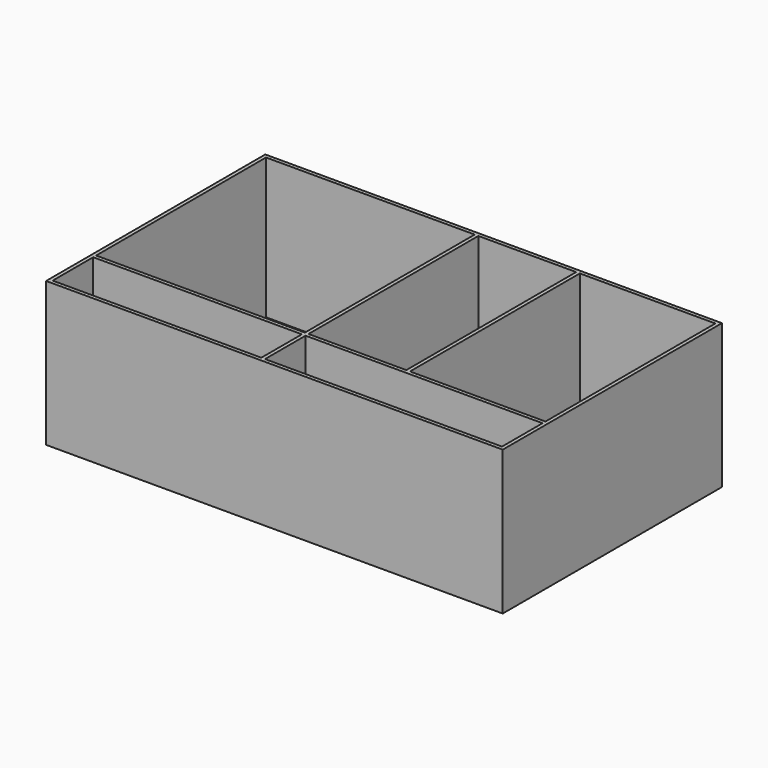
from build123d import *

# Parameters (mm, degrees)
F2_W     = 200
F2_H     = 120
F3_DEPTH = 63.2
F4_T     = -1.6
F5_W     = 1.6
F5_H     = 1.6
F5_H_2   = 22.2
F5_H_3   = 93
F5_W_2   = 91.4
F6_DEPTH = 61.6


with BuildPart() as f3:
    # F2 (on Top) → F3 (new body)
    with BuildSketch(Plane.XY):
        with Locations((74.1047750609, 38.4864358604)):
            Rectangle(F2_W, F2_H)
    extrude(amount=F3_DEPTH)

    # F4
    f4_openings = [f3.faces().sort_by_distance(p)[0] for p in [
        (74.104775, 38.486436, 63.2),
    ]]
    offset(amount=F4_T, openings=f4_openings)

    # F5 (on face) → F6 (join, through all)
    with BuildSketch(Plane.XY.offset(1.6)):
        with Locations((67.9047750609, 3.0864358604)):
            Rectangle(F5_W, F5_H)
        with Locations((67.9047750609, -8.8135641396)):
            Rectangle(F5_W, F5_H_2)
        Polygon((113.1492195054, 3.8864358604), (111.5492195054, 3.8864358604), (68.7047750609, 3.8864358604), (68.7047750609, 2.2864358604), (172.5047750609, 2.2864358604), (172.5047750609, 3.8864358604), align=None)
        with Locations((67.9047750609, 50.3864358604)):
            Rectangle(F5_W, F5_H_3)
        with Locations((21.4047750609, 3.0864358604)):
            Rectangle(F5_W_2, F5_H)
        with Locations((112.3492195054, 50.3864358604)):
            Rectangle(F5_W, F5_H_3)
    extrude(amount=F6_DEPTH)


solid = f3.part
